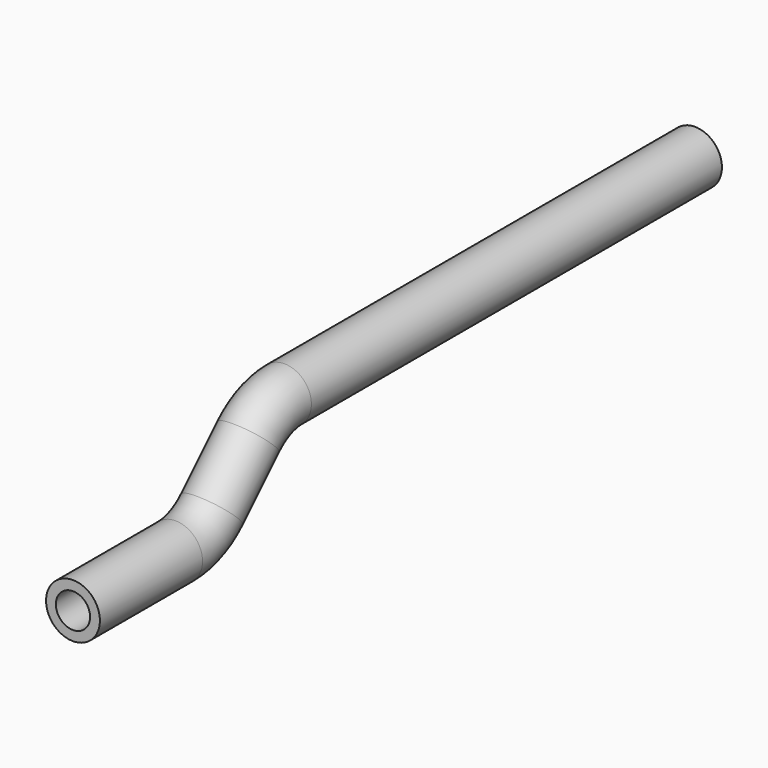
from build123d import *

# Parameters (mm, degrees)
F0_R     = 8.001
F0_R_2   = 5.08
F1_DEPTH = 152.4
F2_R     = 8.001
F2_R_2   = 5.08
F3_ANGLE = 45
F4_R     = 8.001
F4_R_2   = 5.08
F5_DEPTH = 19.05
F6_R     = 8.001
F6_R_2   = 5.08
F7_ANGLE = 45
F8_R     = 8.001
F8_R_2   = 5.08
F9_DEPTH = 38.1


with BuildPart() as f1:
    # F0 (on Front) → F1 (new body)
    with BuildSketch(Plane.XZ):
        Circle(F0_R)
        Circle(F0_R_2, mode=Mode.SUBTRACT)
    extrude(amount=F1_DEPTH)

    # F2 (on face) → F3 (revolve)
    with BuildSketch(Plane.XZ.offset(152.4)):
        Circle(F2_R)
        Circle(F2_R_2, mode=Mode.SUBTRACT)
    revolve(axis=Axis((1.8257172778, -152.4, -19.05), (1, 0, 0)), revolution_arc=F3_ANGLE)

    # F4 (on face) → F5 (join)
    with BuildSketch(Plane(origin=(0, -85.725, -85.725), x_dir=(1, 0, 0), z_dir=(0, -0.7071067812, -0.7071067812))):
        with Locations((0, 113.3426892712)):
            Circle(F4_R)
        with Locations((0, 113.3426892712)):
            Circle(F4_R_2, mode=Mode.SUBTRACT)
    extrude(amount=F5_DEPTH)

    # F6 (on face) → F7 (revolve)
    with BuildSketch(Plane(origin=(0, -99.1953841816, -99.1953841816), x_dir=(1, 0, 0), z_dir=(0, -0.7071067812, -0.7071067812))):
        with Locations((0, 113.3426892712)):
            Circle(F6_R)
        with Locations((0, 113.3426892712)):
            Circle(F6_R_2, mode=Mode.SUBTRACT)
    revolve(axis=Axis((0.5769948475, -192.8111525448, -5.5796158184), (-1, 0, 0)), revolution_arc=F7_ANGLE)

    # F8 (on face) → F9 (join)
    with BuildSketch(Plane.XZ.offset(192.8111525448)):
        with Locations((0, -24.6296158184)):
            Circle(F8_R)
        with Locations((0, -24.6296158184)):
            Circle(F8_R_2, mode=Mode.SUBTRACT)
    extrude(amount=F9_DEPTH)


solid = f1.part
